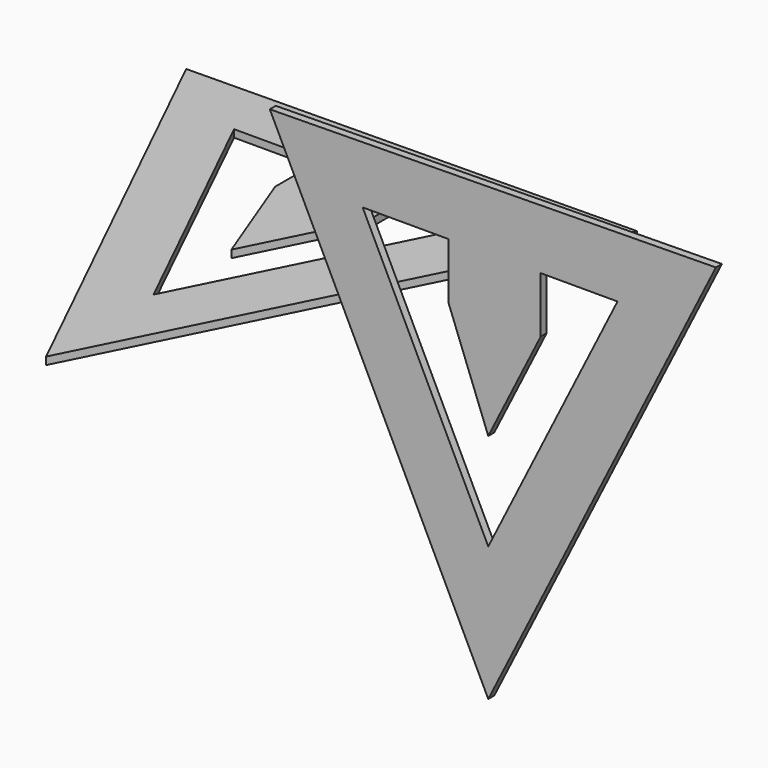
from build123d import *

# Parameters (mm, degrees)
F1_DEPTH = 1.27
F3_DEPTH = 1.27


with BuildPart() as f1:
    # F0 (on Top) → F1 (new body)
    with BuildSketch(Plane.XY):
        Polygon((0, 76.744989), (-75.406281, 75.758584), (-38.48308, 0), align=None)
        Polygon((-38.48308, 22.700268), (-59.716203, 66.266137), (-45.220136, 66.266137), (-45.220136, 56.827694), (-38.48308, 39.146576), (-29.617043, 56.827694), (-29.617043, 66.266137), (-16.637369, 66.266137), align=None, mode=Mode.SUBTRACT)
        Polygon((0, 76.744989), (-75.406281, 75.758584), (-38.48308, 0), align=None)
        Polygon((-38.48308, 22.700268), (-59.716203, 66.266137), (-45.220136, 66.266137), (-45.220136, 56.827694), (-38.48308, 39.146576), (-29.617043, 56.827694), (-29.617043, 66.266137), (-16.637369, 66.266137), align=None, mode=Mode.SUBTRACT)
    extrude(amount=F1_DEPTH)


with BuildPart() as f3:
    # F2 (on Front) → F3 (new body)
    with BuildSketch(Plane.XZ):
        Polygon((75.760864, 52.206486), (0.354584, 51.220081), (37.277785, -24.538503), align=None)
        Polygon((37.277785, -1.838235), (16.044662, 41.727634), (30.540728, 41.727634), (30.540728, 32.289191), (37.277785, 14.608073), (46.143821, 32.289191), (46.143821, 41.727634), (59.123495, 41.727634), align=None, mode=Mode.SUBTRACT)
    extrude(amount=F3_DEPTH)


solid = Compound([f1.part, f3.part])
